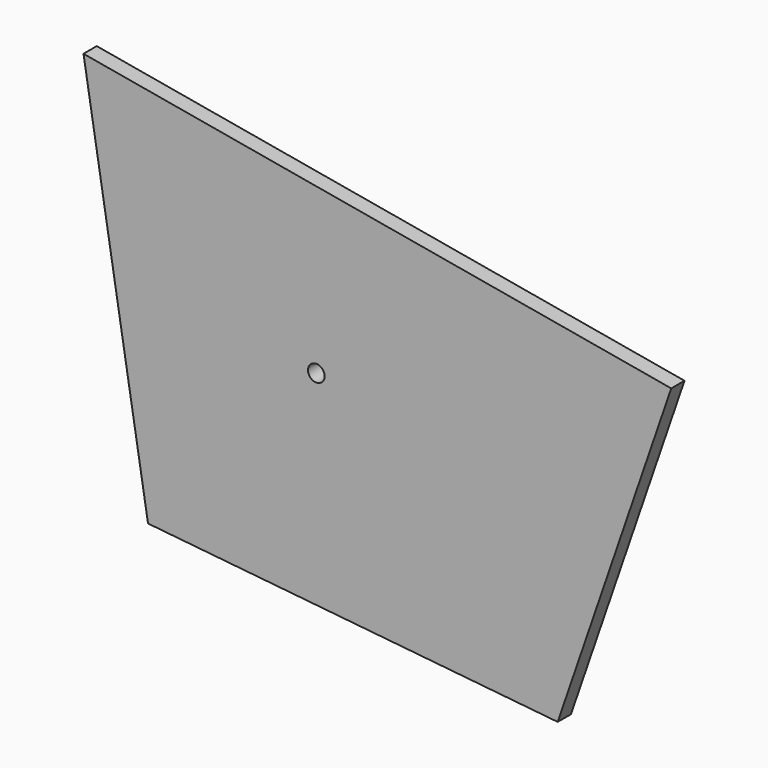
from build123d import *

# Parameters (mm, degrees)
F1_DEPTH = 6.35
F3_D     = 6.35


with BuildPart() as f1:
    # F0 (on Front) → F1 (new body)
    with BuildSketch(Plane.XZ):
        Polygon((67.777015, 110.747342), (-157.360497, 150.383945), (-132.653637, 0), (24.288686, -15.875884), align=None)
    extrude(amount=F1_DEPTH)

    # F3 (through all)
    with Locations(Plane.XZ.offset(6.35)):
        with Locations((-68.178421, 71.662332)):
            Hole(F3_D / 2)


solid = f1.part
